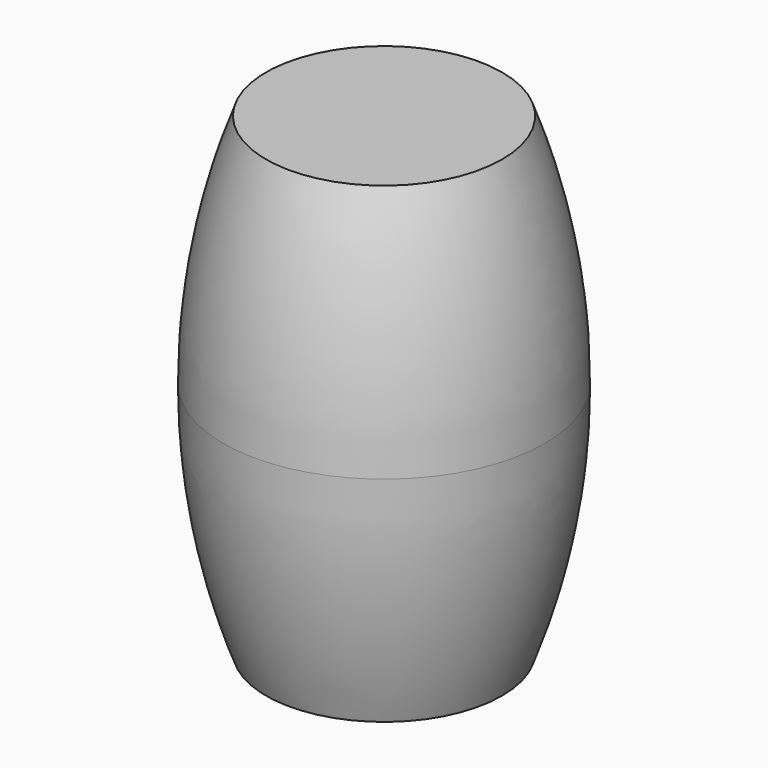
from build123d import *


with BuildPart() as f6:
    # F5 (on Front) → F6 (revolve)
    with BuildSketch(Plane.XZ):
        with BuildLine():
            Line((11, 0), (0, 0))
            Line((0, 0), (0, -22))
            Line((0, -22), (15, -22))
            ThreePointArc((15, -22), (13.991869, -10.81966), (11, 0))
        make_face()
        with BuildLine():
            Line((15, -22), (0, -22))
            Line((0, -22), (0, -44))
            Line((0, -44), (11, -44))
            ThreePointArc((11, -44), (13.991869, -33.18034), (15, -22))
        make_face()
    revolve(axis=Axis((0, 0, -22), (0, 0, -1)))


solid = f6.part
